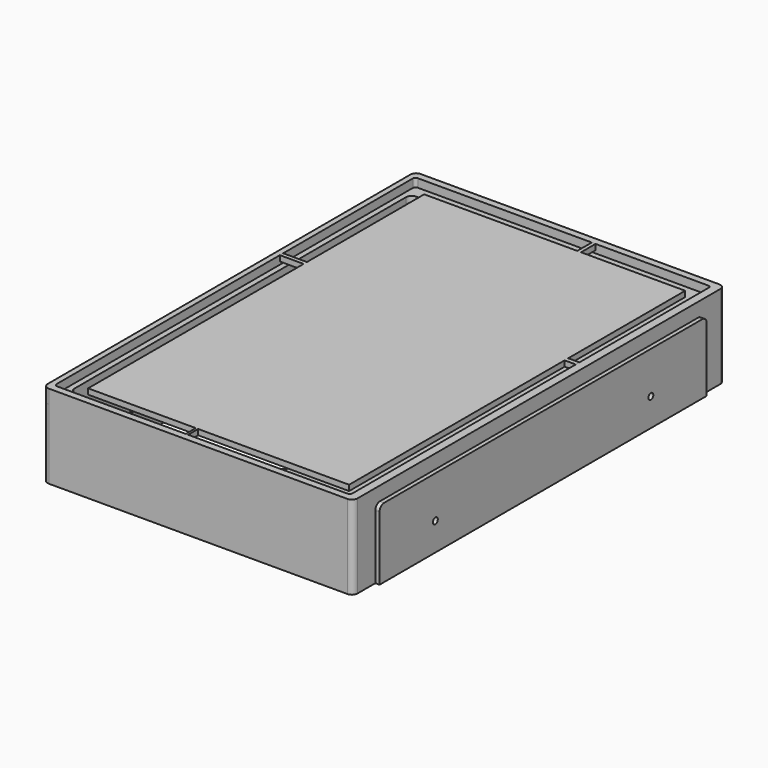
from build123d import *

# Parameters (mm, degrees)
F1_DEPTH  = 3
F3_DEPTH  = 2
F4_DEPTH  = 25
F6_DEPTH  = 22
F7_W      = 1.346439
F7_H      = 6.5
F7_W_2    = 8.5
F7_H_2    = 1.47014
F7_W_3    = 4
F7_H_3    = 1.620425
F7_W_4    = 0.858666
F7_H_4    = 4.5
F8_DEPTH  = 2
F10_DEPTH = 1.5
F12_DEPTH = 1.5
F13_R     = 1.1
F14_DEPTH = 120


with BuildPart() as f1:
    # F0 (on Top) → F1 (new body)
    with BuildSketch(Plane.XY):
        with BuildLine():
            Line((48.044474, 66.263562), (-58.955526, 66.263562))
            ThreePointArc((-58.955526, 66.263562), (-60.369739, 65.677775), (-60.955526, 64.263562))
            Line((-60.955526, 64.263562), (-60.955526, -98.236438))
            ThreePointArc((-60.955526, -98.236438), (-60.369739, -99.650652), (-58.955526, -100.236438))
            Line((-58.955526, -100.236438), (48.044474, -100.236438))
            ThreePointArc((48.044474, -100.236438), (49.458688, -99.650652), (50.044474, -98.236438))
            Line((50.044474, -98.236438), (50.044474, 64.263562))
            ThreePointArc((50.044474, 64.263562), (49.458688, 65.677775), (48.044474, 66.263562))
        make_face()
        with BuildLine():
            ThreePointArc((-58.955526, 62.763562), (-58.662633, 63.470668), (-57.955526, 63.763562))
            Line((-57.955526, 63.763562), (46.044474, 63.763562))
            ThreePointArc((46.044474, 63.763562), (46.751581, 63.470668), (47.044474, 62.763562))
            Line((47.044474, 62.763562), (47.044474, -96.736438))
            ThreePointArc((47.044474, -96.736438), (46.751581, -97.443545), (46.044474, -97.736438))
            Line((46.044474, -97.736438), (-57.955526, -97.736438))
            ThreePointArc((-57.955526, -97.736438), (-58.662633, -97.443545), (-58.955526, -96.736438))
            Line((-58.955526, -96.736438), (-58.955526, 62.763562))
        make_face(mode=Mode.SUBTRACT)
    extrude(amount=F1_DEPTH)

    # F2 (on Top) → F3 (join)
    with BuildSketch(Plane.XY):
        with BuildLine():
            Line((48.044474, 66.263562), (-58.955526, 66.263562))
            ThreePointArc((-58.955526, 66.263562), (-60.369739, 65.677775), (-60.955526, 64.263562))
            Line((-60.955526, 64.263562), (-60.955526, -98.236438))
            ThreePointArc((-60.955526, -98.236438), (-60.369739, -99.650652), (-58.955526, -100.236438))
            Line((-58.955526, -100.236438), (48.044474, -100.236438))
            ThreePointArc((48.044474, -100.236438), (49.458688, -99.650652), (50.044474, -98.236438))
            Line((50.044474, -98.236438), (50.044474, 64.263562))
            ThreePointArc((50.044474, 64.263562), (49.458688, 65.677775), (48.044474, 66.263562))
        make_face()
        with BuildLine():
            ThreePointArc((-56.955526, 57.263562), (-56.369739, 58.677775), (-54.955526, 59.263562))
            Line((-54.955526, 59.263562), (18.044474, 59.263562))
            ThreePointArc((18.044474, 59.263562), (19.458688, 58.677775), (20.044474, 57.263562))
            Line((20.044474, 57.263562), (20.044474, -91.236438))
            ThreePointArc((20.044474, -91.236438), (19.458688, -92.650652), (18.044474, -93.236438))
            Line((18.044474, -93.236438), (-54.955526, -93.236438))
            ThreePointArc((-54.955526, -93.236438), (-56.369739, -92.650652), (-56.955526, -91.236438))
            Line((-56.955526, -91.236438), (-56.955526, 57.263562))
        make_face(mode=Mode.SUBTRACT)
    extrude(amount=-F3_DEPTH)

    # F3_face (on face) → F4 (join)
    with BuildSketch(Plane(origin=(17.18995, -16.986438, -2), x_dir=(1, 0, 0), z_dir=(0, 0, -1))):
        with BuildLine():
            ThreePointArc((30.854524, -83.25), (32.268738, -82.664214), (32.854524, -81.25))
            Line((32.854524, -81.25), (32.854524, 81.25))
            ThreePointArc((32.854524, 81.25), (32.268738, 82.664214), (30.854524, 83.25))
            Line((30.854524, 83.25), (-76.145476, 83.25))
            ThreePointArc((-76.145476, 83.25), (-77.55969, 82.664214), (-78.145476, 81.25))
            Line((-78.145476, 81.25), (-78.145476, -81.25))
            ThreePointArc((-78.145476, -81.25), (-77.55969, -82.664214), (-76.145476, -83.25))
            Line((-76.145476, -83.25), (30.854524, -83.25))
        make_face()
        with BuildLine():
            ThreePointArc((-74.145476, 74.25), (-73.55969, 75.664214), (-72.145476, 76.25))
            Line((-72.145476, 76.25), (0.854524, 76.25))
            ThreePointArc((0.854524, 76.25), (2.268738, 75.664214), (2.854524, 74.25))
            Line((2.854524, 74.25), (2.854524, -74.25))
            ThreePointArc((2.854524, -74.25), (2.268738, -75.664214), (0.854524, -76.25))
            Line((0.854524, -76.25), (-72.145476, -76.25))
            ThreePointArc((-72.145476, -76.25), (-73.55969, -75.664214), (-74.145476, -74.25))
            Line((-74.145476, -74.25), (-74.145476, 74.25))
        make_face(mode=Mode.SUBTRACT)
    extrude(amount=F4_DEPTH)

    # F5 (on face) → F6 (cut)
    with BuildSketch(Plane(origin=(0, 0, -27), x_dir=(1, 0, 0), z_dir=(0, 0, -1))):
        with BuildLine():
            Line((44.044474, 96.236438), (-54.955526, 96.236438))
            ThreePointArc((-54.955526, 96.236438), (-56.369739, 95.650652), (-56.955526, 94.236438))
            Line((-56.955526, 94.236438), (-56.955526, -60.263562))
            ThreePointArc((-56.955526, -60.263562), (-56.369739, -61.677775), (-54.955526, -62.263562))
            Line((-54.955526, -62.263562), (44.044474, -62.263562))
            ThreePointArc((44.044474, -62.263562), (45.458688, -61.677775), (46.044474, -60.263562))
            Line((46.044474, -60.263562), (46.044474, 94.236438))
            ThreePointArc((46.044474, 94.236438), (45.458688, 95.650652), (44.044474, 96.236438))
        make_face()
    extrude(amount=-F6_DEPTH, mode=Mode.SUBTRACT)

    # F9 (on face) → F10 (join)
    with BuildSketch(Plane(origin=(-60.955526, 0, 0), x_dir=(0, -1, 0), z_dir=(-1, 0, 0))):
        with BuildLine():
            Line((88.236438, -2), (-54.263562, -2))
            ThreePointArc((-54.263562, -2), (-55.677775, -2.585786), (-56.263562, -4))
            Line((-56.263562, -4), (-56.263562, -27))
            Line((-56.263562, -27), (90.236438, -27))
            Line((90.236438, -27), (90.236438, -4))
            ThreePointArc((90.236438, -4), (89.650652, -2.585786), (88.236438, -2))
        make_face()
    extrude(amount=F10_DEPTH)

    # F11 (on face) → F12 (join)
    with BuildSketch(Plane.YZ.offset(50.044474)):
        with BuildLine():
            Line((54.263562, -2), (-88.236438, -2))
            ThreePointArc((-88.236438, -2), (-89.650652, -2.585786), (-90.236438, -4))
            Line((-90.236438, -4), (-90.236438, -27))
            Line((-90.236438, -27), (56.263562, -27))
            Line((56.263562, -27), (56.263562, -4))
            ThreePointArc((56.263562, -4), (55.677775, -2.585786), (54.263562, -2))
        make_face()
    extrude(amount=F12_DEPTH)

    # F13 (on face) → F14 (cut)
    with BuildSketch(Plane.YZ.offset(51.544474)):
        with Locations((-65.236438, -17)):
            Circle(F13_R)
        with Locations((31.263562, -17)):
            Circle(F13_R)
    extrude(amount=-F14_DEPTH, mode=Mode.SUBTRACT)


with BuildPart() as f8:
    # F7 (on face) → F8 (new body)
    with BuildSketch(Plane.XY.offset(3)):
        Polygon((4.386305, 57.263562), (-50.455526, 57.263562), (-50.455526, 4.740212), (-50.455526, 3.270072), (-50.455526, -93.236438), (-11.881823, -93.236438), (-11.023157, -93.236438), (43.044474, -93.236438), (43.044474, 3.27007), (43.044474, 4.890495), (43.044474, 57.263562), (5.732744, 57.263562), align=None)
        with Locations((5.059525, 60.513562)):
            Rectangle(F7_W, F7_H)
        with Locations((-54.705526, 4.005142)):
            Rectangle(F7_W_2, F7_H_2)
        with Locations((45.044474, 4.080283)):
            Rectangle(F7_W_3, F7_H_3)
        with Locations((-11.45249, -95.486438)):
            Rectangle(F7_W_4, F7_H_4)
    extrude(amount=-F8_DEPTH)


with BuildPart() as f15_1:
    # F15: copy of F1
    add(f1.part)


solid = Compound([f1.part, f8.part, f15_1.part])
